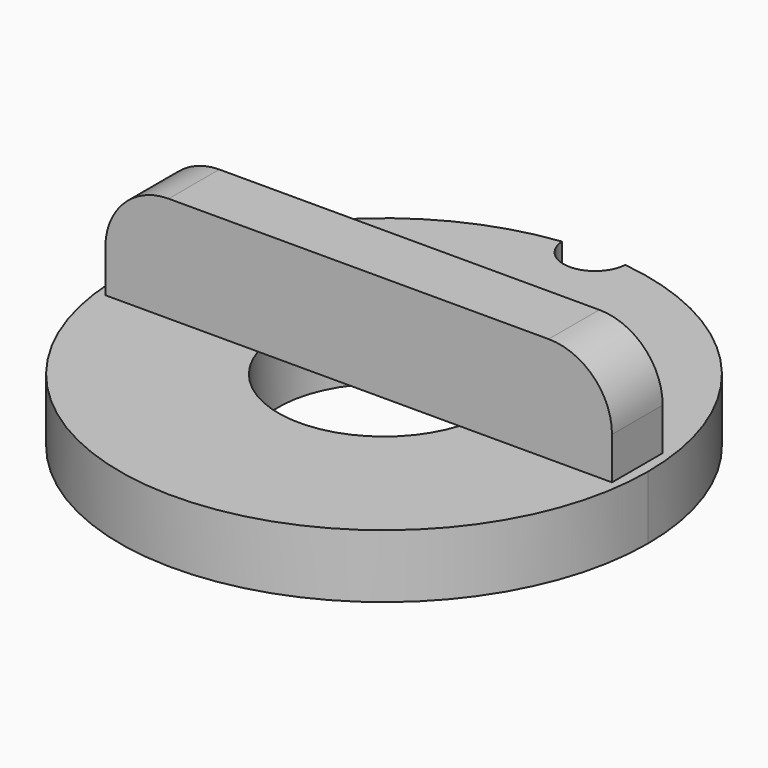
from build123d import *

# Parameters (mm, degrees)
F1_DEPTH = 3
F2_W     = 24
F2_H     = 3
F3_DEPTH = 5
F4_R     = 5
F5_DEPTH = 3
F6_R     = 3


with BuildPart() as f1:
    # F0 (on Top) → F1 (new body)
    with BuildSketch(Plane.XY):
        with BuildLine():
            ThreePointArc((-1.497298, 12.41), (-8.29258, -9.353241), (12.5, 0))
            ThreePointArc((12.5, 0), (9.353241, 8.29258), (1.497298, 12.41))
            ThreePointArc((1.497298, 12.41), (0, 11), (-1.497298, 12.41))
        make_face()
    extrude(amount=F1_DEPTH)

    # F2 (on face) → F3 (join)
    with BuildSketch(Plane.XY.offset(3)):
        Rectangle(F2_W, F2_H)
    extrude(amount=F3_DEPTH)

    # F4 (on face) → F5 (cut)
    with BuildSketch(Plane(origin=(0, 0, 0), x_dir=(1, 0, 0), z_dir=(0, 0, -1))):
        Circle(F4_R)
    extrude(amount=-F5_DEPTH, mode=Mode.SUBTRACT)

    # F6
    f6_edges = [f1.edges().sort_by_distance(p)[0] for p in [
        (12, 0, 8),
        (-12, 0, 8),
    ]]
    fillet(f6_edges, radius=F6_R)


solid = f1.part
